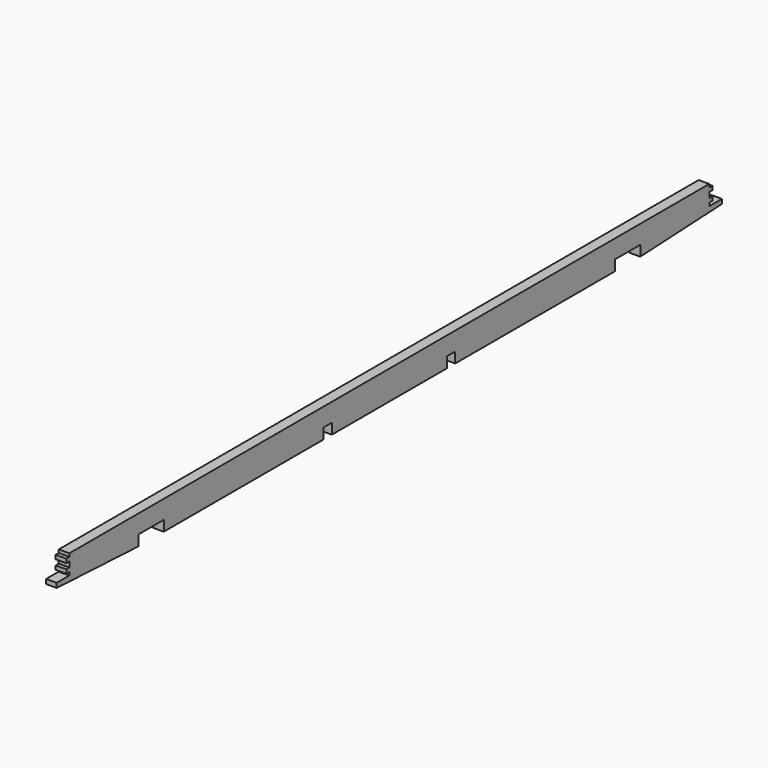
from build123d import *

# Parameters (mm, degrees)
F1_DEPTH = 1.1684


with BuildPart() as f1:
    # F0 (on Right) → F1 (new body)
    with BuildSketch(Plane.YZ):
        Polygon((0, 1.155134), (0, 0), (21.990908, 0), (21.990908, 1.16692), (23.160687, 1.16692), (23.160687, 0), (38.995322, 0), (38.995322, 1.16692), (40.1651, 1.16692), (40.1651, 0), (62.156009, 0), (62.156009, 1.155134), (65.656317, 1.155134), (65.656317, 0), (76.909512, 0.539497), (76.909512, 1.037424), (75.167507, 1.037424), (75.167507, 1.386313), (75.588073, 1.386313), (75.588073, 1.815671), (75.167507, 1.815671), (75.167507, 2.411871), (75.588073, 2.411871), (75.588073, 2.848241), (75.167507, 2.848241), (75.167507, 3.197467), (-13.011498, 3.197467), (-13.011498, 2.848241), (-13.432064, 2.848241), (-13.432064, 2.411871), (-13.011498, 2.411871), (-13.011498, 1.815671), (-13.432064, 1.815671), (-13.432064, 1.386313), (-13.011498, 1.386313), (-13.011498, 1.037424), (-14.753504, 1.037424), (-14.753504, 0.539497), (-3.500308, 0), (-3.500308, 1.155134), align=None)
    extrude(amount=F1_DEPTH)


solid = f1.part
